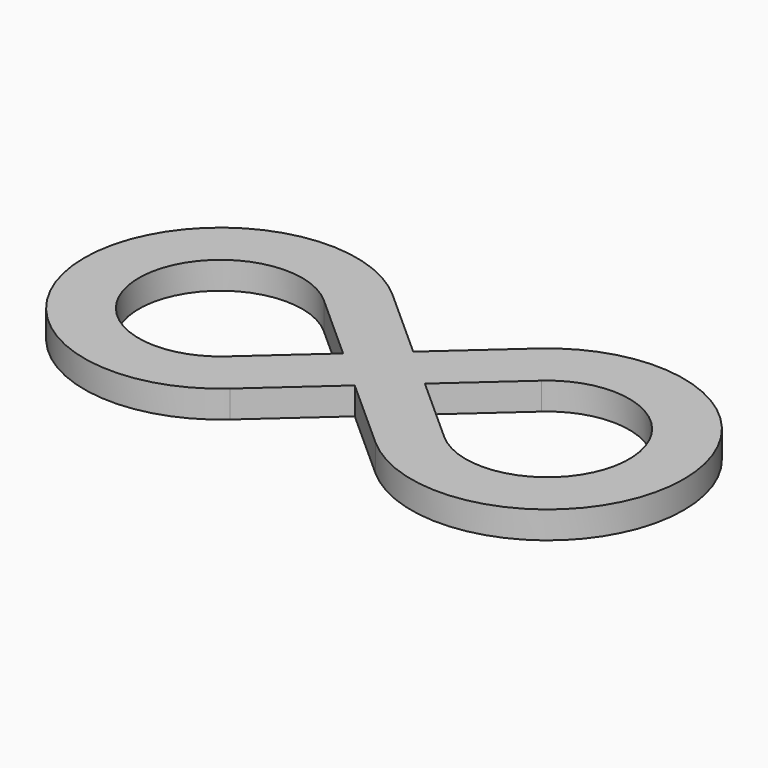
from build123d import *

# Parameters (mm, degrees)
F1_DEPTH = 12.7


with BuildPart() as f1:
    # F0 (on Top) → F1 (new body)
    with BuildSketch(Plane.XY):
        with BuildLine():
            ThreePointArc((-50.8, -28.3980633142), (-114.3, 0), (-50.8, 28.3980633142))
            Line((-50.8, 28.3980633142), (-33.8666666667, 47.3301055237))
            ThreePointArc((-33.8666666667, 47.3301055237), (-139.7, 0), (-33.8666666667, -47.3301055237))
            Line((-33.8666666667, -47.3301055237), (-50.8, -28.3980633142))
        make_face()
        with BuildLine():
            Line((50.8, -28.3980633142), (33.8666666667, -47.3301055237))
            ThreePointArc((33.8666666667, -47.3301055237), (139.7, 0), (33.8666666667, 47.3301055237))
            Line((33.8666666667, 47.3301055237), (50.8, 28.3980633142))
            ThreePointArc((50.8, 28.3980633142), (114.3, 0), (50.8, -28.3980633142))
        make_face()
        Polygon((0, 17.0388379885), (-19.05, 0), (0, -17.0388379885), (19.05, 0), align=None)
        Polygon((-33.8666666667, 47.3301055237), (-50.8, 28.3980633142), (-19.05, 0), (0, 17.0388379885), align=None)
        Polygon((33.8666666667, 47.3301055237), (0, 17.0388379885), (19.05, 0), (50.8, 28.3980633142), align=None)
        Polygon((19.05, 0), (0, -17.0388379885), (33.8666666667, -47.3301055237), (50.8, -28.3980633142), align=None)
        Polygon((-19.05, 0), (-50.8, -28.3980633142), (-33.8666666667, -47.3301055237), (0, -17.0388379885), align=None)
    extrude(amount=F1_DEPTH)


solid = f1.part
